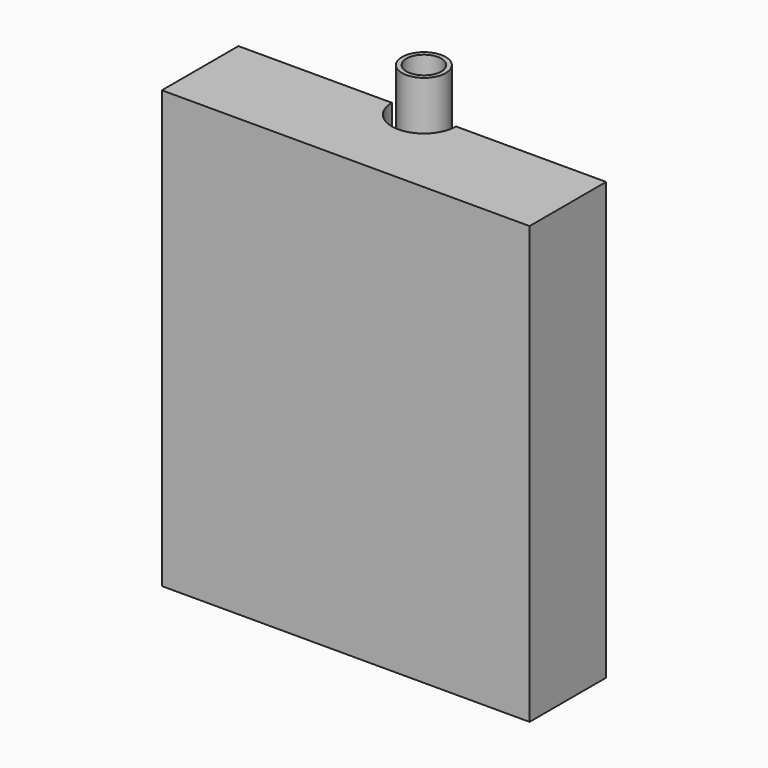
from build123d import *

# Parameters (mm, degrees)
F2_DEPTH = 63.5
F3_DEPTH = 76.2


with BuildPart() as f2:
    # F1 (on face) → F2 (new body, symmetric)
    with BuildSketch(Plane.XY):
        with BuildLine():
            Line((53.010777, 0), (9.325226, 0))
            ThreePointArc((9.325226, 0), (0, -9.325226), (-9.325226, 0))
            Line((-9.325226, 0), (-53.961772, 0))
            Line((-53.961772, 0), (-53.961772, -27.837317))
            Line((-53.961772, -27.837317), (53.010777, -27.837317))
            Line((53.010777, -27.837317), (53.010777, 0))
        make_face()
    extrude(amount=F2_DEPTH, both=True)


with BuildPart() as f3:
    # F0 (on Top) → F3 (new body, symmetric)
    with BuildSketch(Plane.XY):
        with BuildLine():
            Line((6.35, 0), (5.08, 0))
            ThreePointArc((5.08, 0), (0, -5.08), (-5.08, 0))
            Line((-5.08, 0), (-6.35, 0))
            ThreePointArc((-6.35, 0), (0, -6.35), (6.35, 0))
        make_face()
        with BuildLine():
            ThreePointArc((-5.08, 0), (0, 5.08), (5.08, 0))
            Line((5.08, 0), (6.35, 0))
            ThreePointArc((6.35, 0), (0, 6.35), (-6.35, 0))
            Line((-6.35, 0), (-5.08, 0))
        make_face()
    extrude(amount=F3_DEPTH, both=True)


solid = Compound([f2.part, f3.part])
